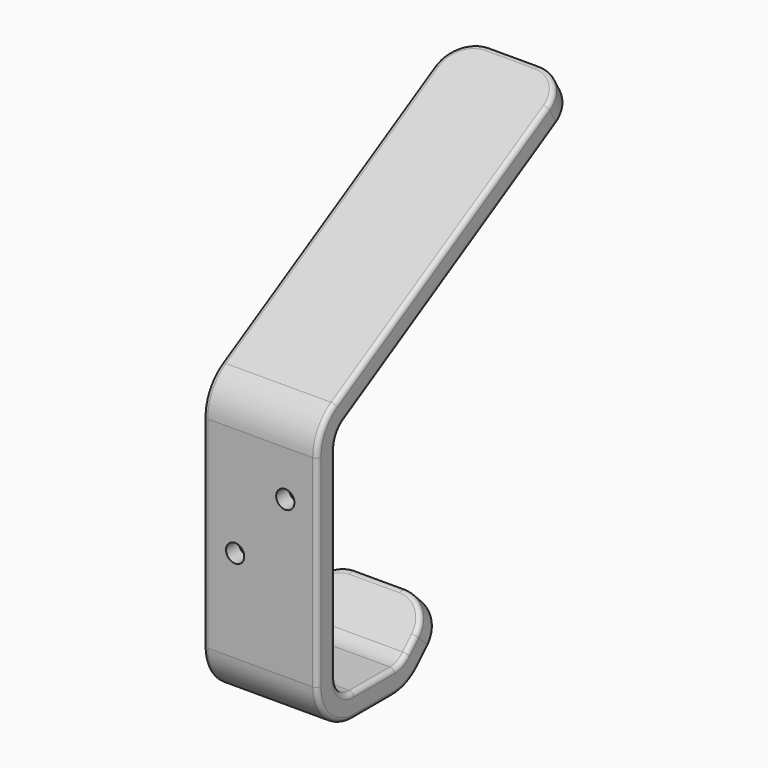
from build123d import *

# Parameters (mm, degrees)
F1_DEPTH        = 25
F2_R            = 7
F3_R            = 5
F4_R            = 10
F5_R            = 5
F6_R            = 10
F7_R            = 10
F8_R            = 1
F9_R            = 5
F10_R           = 1
F12_D           = 4
F12_CSINK_D     = 7
F12_CSINK_ANGLE = 90


with BuildPart() as f1:
    # F0 (on Right) → F1 (new body)
    with BuildSketch(Plane.YZ):
        Polygon((-25, 60), (-25, 0), (0, 0), (10.606602, 10.606602), (7.071068, 14.142136), (-1.812448, 5.25862), (-20, 5.25862), (-20, 57.113249), (46.782032, 95.669873), (44.282032, 100), align=None)
    extrude(amount=F1_DEPTH)

    # F2
    f2_edges = [f1.edges().sort_by_distance(p)[0] for p in [
        (25, 8.838835, 12.374369),
        (0, 8.838835, 12.374369),
        (25, 45.532032, 97.834936),
        (0, 45.532032, 97.834936),
    ]]
    fillet(f2_edges, radius=F2_R)

    # F3
    f3_edges = [f1.edges().sort_by_distance(p)[0] for p in [
        (12.5, -20, 57.113249),
    ]]
    fillet(f3_edges, radius=F3_R)

    # F4
    f4_edges = [f1.edges().sort_by_distance(p)[0] for p in [
        (12.5, -25, 60),
    ]]
    fillet(f4_edges, radius=F4_R)

    # F5
    f5_edges = [f1.edges().sort_by_distance(p)[0] for p in [
        (12.5, -1.812448, 5.25862),
    ]]
    fillet(f5_edges, radius=F5_R)

    # F6
    f6_edges = [f1.edges().sort_by_distance(p)[0] for p in [
        (12.5, -25, 0),
    ]]
    fillet(f6_edges, radius=F6_R)

    # F7
    f7_edges = [f1.edges().sort_by_distance(p)[0] for p in [
        (12.5, 0, 0),
    ]]
    fillet(f7_edges, radius=F7_R)

    # F8
    f8_edges = [f1.edges().sort_by_distance(p)[0] for p in [
        (0, -25, 32.113249),
    ]]
    fillet(f8_edges, radius=F8_R)

    # F9
    f9_edges = [f1.edges().sort_by_distance(p)[0] for p in [
        (12.5, -20, 5.25862),
    ]]
    fillet(f9_edges, radius=F9_R)

    # F10
    f10_edges = [f1.edges().sort_by_distance(p)[0] for p in [
        (25, -20, 32.242559),
    ]]
    fillet(f10_edges, radius=F10_R)

    # F12 (through all)
    with Locations(Plane(origin=(0, -20, 0), x_dir=(-1, 0, 0), z_dir=(0, 1, 0))):
        with Locations((-18, 44.226497), (-7, 30.25862)):
            CounterSinkHole(F12_D / 2, F12_CSINK_D / 2, counter_sink_angle=F12_CSINK_ANGLE)


solid = f1.part
